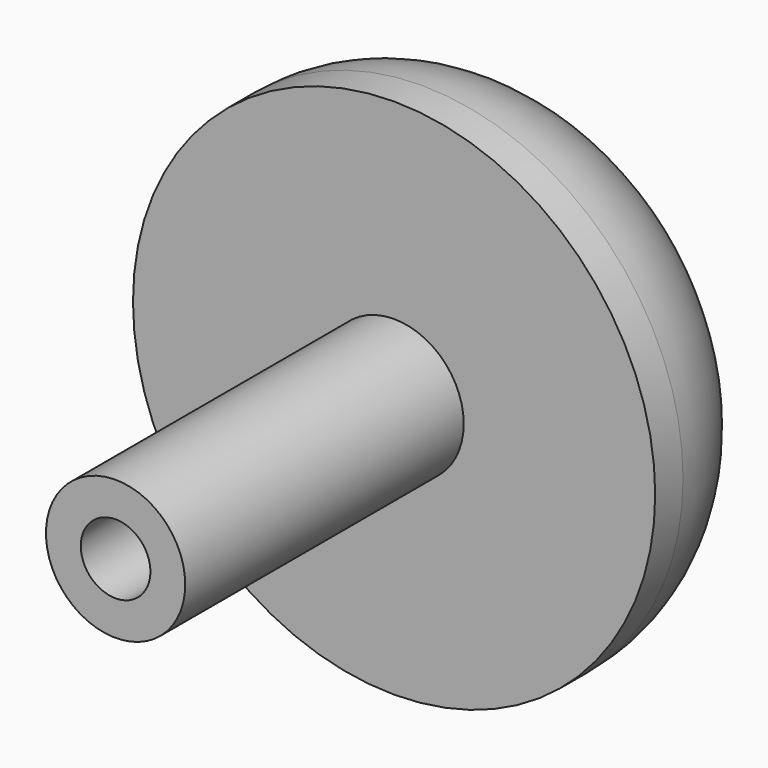
from build123d import *

# Parameters (mm, degrees)
F0_R     = 2
F0_R_2   = 1
F1_DEPTH = 10
F2_R     = 7.5
F3_DEPTH = 5
F4_R     = 1
F5_DEPTH = 15.001
F6_R     = 4


with BuildPart() as f1:
    # F0 (on Front) → F1 (new body)
    with BuildSketch(Plane.XZ):
        Circle(F0_R)
        Circle(F0_R_2, mode=Mode.SUBTRACT)
    extrude(amount=F1_DEPTH)

    # F2 (on Front) → F3 (join)
    with BuildSketch(Plane.XZ):
        Circle(F2_R)
    extrude(amount=-F3_DEPTH)

    # F4 (on face) → F5 (cut, through all)
    with BuildSketch(Plane(origin=(0, 5, 0), x_dir=(-1, 0, 0), z_dir=(0, 1, 0))):
        Circle(F4_R)
    extrude(amount=-F5_DEPTH, mode=Mode.SUBTRACT)

    # F6
    f6_edges = [f1.edges().sort_by_distance(p)[0] for p in [
        (-7.5, 5, 0),
    ]]
    fillet(f6_edges, radius=F6_R)


solid = f1.part
